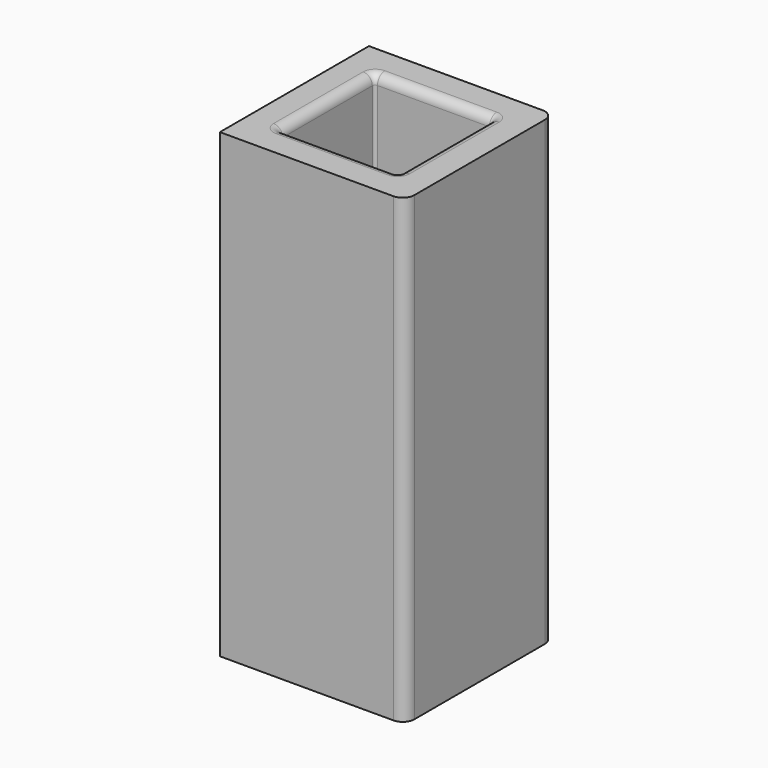
from build123d import *

# Parameters (mm, degrees)
F1_DEPTH = 80
F2_R     = 1.6


with BuildPart() as f1:
    # F0 (on Top) → F1 (new body)
    with BuildSketch(Plane.XY):
        with BuildLine():
            Line((-23.1813, -2.851314), (-23.1813, 25.448686))
            ThreePointArc((-23.1813, 25.448686), (-23.802895, 26.897824), (-25.2813, 27.446184))
            Line((-25.2813, 27.446184), (-55.2813, 27.446184))
            Line((-55.2813, 27.446184), (-55.2813, -4.851314))
            Line((-55.2813, -4.851314), (-25.1813, -4.851314))
            ThreePointArc((-25.1813, -4.851314), (-23.767087, -4.265528), (-23.1813, -2.851314))
        make_face()
        with BuildLine():
            ThreePointArc((-49.5813, 21.048686), (-49.434854, 21.402239), (-49.0813, 21.548686))
            Line((-49.0813, 21.548686), (-29.6813, 21.548686))
            ThreePointArc((-29.6813, 21.548686), (-29.327747, 21.402239), (-29.1813, 21.048686))
            Line((-29.1813, 21.048686), (-29.1813, 1.648686))
            ThreePointArc((-29.1813, 1.648686), (-29.327747, 1.295133), (-29.6813, 1.148686))
            Line((-29.6813, 1.148686), (-49.0813, 1.148686))
            ThreePointArc((-49.0813, 1.148686), (-49.434854, 1.295133), (-49.5813, 1.648686))
            Line((-49.5813, 1.648686), (-49.5813, 21.048686))
        make_face(mode=Mode.SUBTRACT)
    extrude(amount=F1_DEPTH)

    # F2
    f2_edges = [f1.edges().sort_by_distance(p)[0] for p in [
        (-39.3813, 21.548686, 0),
        (-39.3813, 21.548686, 80),
    ]]
    fillet(f2_edges, radius=F2_R)


solid = f1.part
